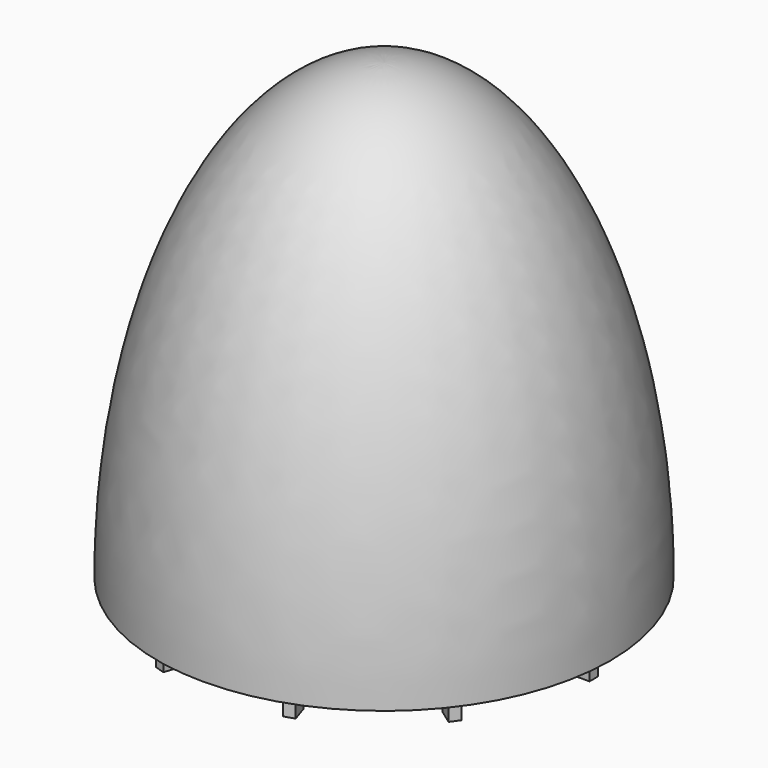
from build123d import *

# Parameters (mm, degrees)
F4_W     = 5
F4_H     = 3
F5_DEPTH = 6


with BuildPart() as f1:
    # F0 (on Front) → F1 (revolve)
    with BuildSketch(Plane.XZ):
        with BuildLine():
            Line((0, 0), (63.5, 0))
            add(Edge.make_bspline(
                [(63.5, 0), (63.5, 127), (0, 127)],
                knots=[4.7123889804, 4.7123889804, 4.7123889804, 6.2831853072, 6.2831853072, 6.2831853072], degree=2, weights=[1, 0.7071067812, 1]))
            Line((0, 127), (0, 0))
        make_face()
    revolve(axis=Axis((0, 0, 63.5), (0, 0, 1)))

    # F2 (on Front) → F3 (revolve, cut)
    with BuildSketch(Plane.XZ):
        with BuildLine():
            ThreePointArc((35, 70), (29.1421356237, 84.1421356237), (15, 90))
            Line((15, 90), (0, 90))
            Line((0, 90), (0, 0))
            Line((0, 0), (35, 0))
            Line((35, 0), (35, 70))
        make_face()
    revolve(axis=Axis((0, 0, 45), (0, 0, 1)), mode=Mode.SUBTRACT)

    # F4 (on face) → F5 (join)
    with BuildSketch(Plane(origin=(0, 0, 0), x_dir=(1, 0, 0), z_dir=(0, 0, -1))):
        with Locations((-56.375, 0)):
            Rectangle(F4_W, F4_H)
        with Locations((-42.125, 0)):
            Rectangle(F4_W, F4_H)
        Polygon((-46.7491976654, -35.8193822203), (-42.7041126935, -32.8804559588), (-44.4674684504, -30.4534049757), (-48.5125534223, -33.3923312372), align=None)
        Polygon((-35.2207054955, -27.4434423751), (-31.1756205237, -24.5045161137), (-32.9389762805, -22.0774651305), (-36.9840612524, -25.016391392), align=None)
        Polygon((-16.7667907694, -56.4569778884), (-15.2217057975, -51.701695307), (-18.0748753464, -50.7746443238), (-19.6199603183, -55.5299269053), align=None)
        Polygon((-12.3632985995, -42.9044225312), (-10.8182136277, -38.1491399498), (-13.6713831766, -37.2220889666), (-15.2164681484, -41.9773715481), align=None)
        Polygon((19.6199603183, -55.5299269053), (18.0748753464, -50.7746443238), (15.2217057975, -51.701695307), (16.7667907694, -56.4569778884), align=None)
        Polygon((15.2164681484, -41.9773715481), (13.6713831766, -37.2220889666), (10.8182136277, -38.1491399498), (12.3632985995, -42.9044225312), align=None)
        Polygon((48.5125534223, -33.3923312372), (44.4674684504, -30.4534049757), (42.7041126935, -32.8804559588), (46.7491976654, -35.8193822203), align=None)
        Polygon((36.9840612524, -25.016391392), (32.9389762805, -22.0774651305), (31.1756205237, -24.5045161137), (35.2207054955, -27.4434423751), align=None)
        with Locations((56.375, 0)):
            Rectangle(F4_W, F4_H)
        with Locations((42.125, 0)):
            Rectangle(F4_W, F4_H)
        Polygon((46.7491976654, 35.8193822203), (42.7041126935, 32.8804559588), (44.4674684504, 30.4534049757), (48.5125534223, 33.3923312372), align=None)
        Polygon((35.2207054955, 27.4434423751), (31.1756205237, 24.5045161137), (32.9389762805, 22.0774651305), (36.9840612524, 25.016391392), align=None)
        Polygon((16.7667907694, 56.4569778884), (15.2217057975, 51.701695307), (18.0748753464, 50.7746443238), (19.6199603183, 55.5299269053), align=None)
        Polygon((12.3632985995, 42.9044225312), (10.8182136277, 38.1491399498), (13.6713831766, 37.2220889666), (15.2164681484, 41.9773715481), align=None)
        Polygon((-19.6199603183, 55.5299269053), (-18.0748753464, 50.7746443238), (-15.2217057975, 51.701695307), (-16.7667907694, 56.4569778884), align=None)
        Polygon((-15.2164681484, 41.9773715481), (-13.6713831766, 37.2220889666), (-10.8182136277, 38.1491399498), (-12.3632985995, 42.9044225312), align=None)
        Polygon((-48.5125534223, 33.3923312372), (-44.4674684504, 30.4534049757), (-42.7041126935, 32.8804559588), (-46.7491976654, 35.8193822203), align=None)
        Polygon((-36.9840612524, 25.016391392), (-32.9389762805, 22.0774651305), (-31.1756205237, 24.5045161137), (-35.2207054955, 27.4434423751), align=None)
    extrude(amount=F5_DEPTH)


solid = f1.part
